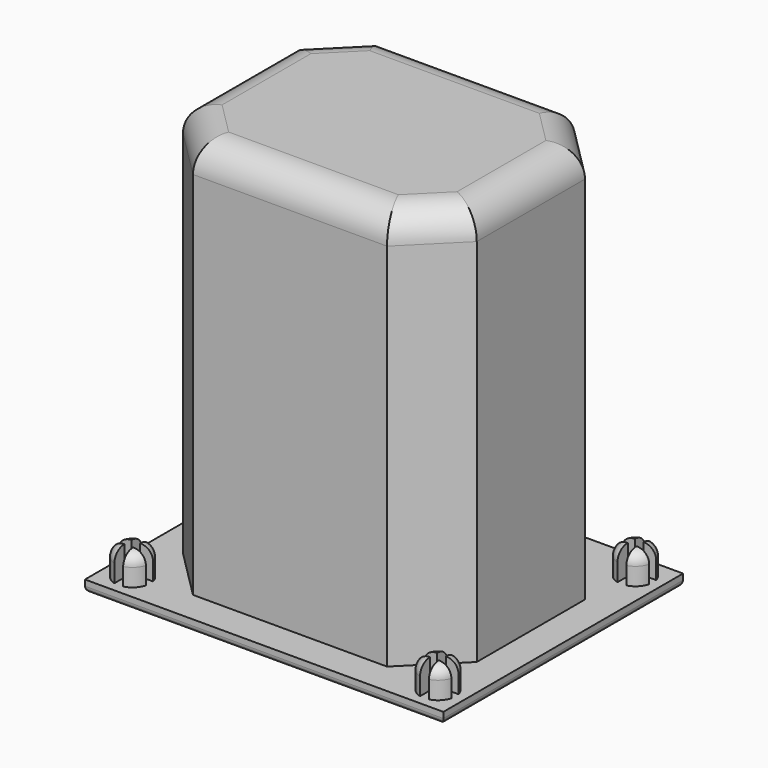
from build123d import *

# Parameters (mm, degrees)
SKETCH001_W                = 61
SKETCH001_H                = 51
PAD_DEPTH                  = 2
SKETCH002_R                = 3
PAD001_DEPTH               = 5
SKETCH002_MIRRORED_2_R     = 3
PAD001_MIRRORED_2_DEPTH    = 5
FILLET_R                   = 2
FILLET001_R                = 1
POCKET_DEPTH               = 5
POCKET_MIRRORED002_2_DEPTH = 5
PAD025_DEPTH               = 70
POCKET018_DEPTH            = 68
SKETCH062_W                = 1.5
SKETCH062_H                = 68
PAD023_DEPTH               = 37
FILLET025_R                = 5
SKETCH064_W                = 1
SKETCH064_H                = 68
PAD026_DEPTH               = 47


with BuildPart() as part:
    # Sketch001 → Pad (new body)
    with BuildSketch(Plane.XY):
        Rectangle(SKETCH001_W, SKETCH001_H)
    extrude(amount=PAD_DEPTH)

    # Sketch002 (on DatumPlane) → Pad001 (join)
    with BuildSketch(Plane.XY.offset(2)):
        with Locations((-26, 21)):
            Circle(SKETCH002_R)
    pad001 = extrude(amount=PAD001_DEPTH)

    # Sketch002 Mirrored 2 → Pad001 Mirrored 2 (add)
    with BuildSketch(Plane(origin=(0, 0, 2), x_dir=(-1, 0, 0), z_dir=(0, 0, -1))):
        with Locations((-26, 21)):
            Circle(SKETCH002_MIRRORED_2_R)
    pad001_mirrored_2 = extrude(amount=-PAD001_MIRRORED_2_DEPTH)

    # Mirrored001: Pad001, Pad001 Mirrored 2 across Sketch002 H_Axis
    add(pad001.mirror(Plane(origin=(0, 0, 2), x_dir=(0, 0, 1), z_dir=(0, 1, 0))))
    add(pad001_mirrored_2.mirror(Plane(origin=(0, 0, 2), x_dir=(0, 0, 1), z_dir=(0, 1, 0))))

    # Fillet
    fillet_edges = [part.edges().sort_by_distance(p)[0] for p in [
        (29, 21, 7),
        (29, -21, 7),
        (-29, -21, 7),
        (-29, 21, 7),
    ]]
    fillet(fillet_edges, radius=FILLET_R)

    # Fillet001
    fillet001_edges = [part.edges().sort_by_distance(p)[0] for p in [
        (0, 25.5, 0),
        (30.5, 0, 0),
        (0, -25.5, 0),
        (-30.5, 0, 0),
    ]]
    fillet(fillet001_edges, radius=FILLET001_R)

    # Sketch003 (on DatumPlane) → Pocket (cut)
    with BuildSketch(Plane.XY.offset(7)):
        Polygon((-29.265642, -20.28286), (-26.765642, -20.28286), (-26.765642, -17.78286), (-25.265642, -17.78286), (-25.265642, -20.28286), (-22.765642, -20.28286), (-22.765642, -21.78286), (-25.265642, -21.78286), (-25.265642, -24.28286), (-26.765642, -24.28286), (-26.765642, -21.78286), (-29.265642, -21.78286), align=None)
    pocket = extrude(amount=-POCKET_DEPTH, mode=Mode.SUBTRACT)

    # Sketch003 Mirrored002 2 → Pocket Mirrored002 2 (cut)
    with BuildSketch(Plane(origin=(0, 0, 7), x_dir=(-1, 0, 0), z_dir=(0, 0, -1))):
        Polygon((-29.265642, -20.28286), (-26.765642, -20.28286), (-26.765642, -17.78286), (-25.265642, -17.78286), (-25.265642, -20.28286), (-22.765642, -20.28286), (-22.765642, -21.78286), (-25.265642, -21.78286), (-25.265642, -24.28286), (-26.765642, -24.28286), (-26.765642, -21.78286), (-29.265642, -21.78286), align=None)
    pocket_mirrored002_2 = extrude(amount=POCKET_MIRRORED002_2_DEPTH, mode=Mode.SUBTRACT)

    # Mirrored003: Pocket, Pocket Mirrored002 2 across Sketch003 H_Axis
    add(pocket.mirror(Plane(origin=(0, 0, 7), x_dir=(0, 0, 1), z_dir=(0, 1, 0))), mode=Mode.SUBTRACT)
    add(pocket_mirrored002_2.mirror(Plane(origin=(0, 0, 7), x_dir=(0, 0, 1), z_dir=(0, 1, 0))), mode=Mode.SUBTRACT)


with BuildPart() as part_1:
    # Body placement: moved
    add(part.part.moved(Location((0, -65, 0))))


with BuildPart() as part_2:
    # BaseFeature placement: moved
    add(part_1.part.moved(Location((0, 65, 0))))

    # Sketch060 (on DatumPlane) → Pad025 (new body)
    with BuildSketch(Plane(origin=(0, 0, 0), x_dir=(1, 0, 0), z_dir=(0, 0, -1))):
        Polygon((-25, 11.514719), (-16.514719, 20), (16.514719, 20), (25, 11.514719), (25, -11.514719), (16.514719, -20), (-16.514719, -20), (-25, -11.514719), align=None)
    extrude(amount=-PAD025_DEPTH)

    # Sketch061 (on DatumPlane) → Pocket018 (cut)
    with BuildSketch(Plane(origin=(0, 0, 0), x_dir=(1, 0, 0), z_dir=(0, 0, -1))):
        Polygon((-23.5, 11.428932), (-16.428932, 18.5), (16.428932, 18.5), (23.5, 11.428932), (23.5, -11.428932), (16.428932, -18.5), (-16.428932, -18.5), (-23.5, -11.428932), align=None)
    extrude(amount=-POCKET018_DEPTH, mode=Mode.SUBTRACT)


with BuildPart() as part_3:
    # Body022 placement: moved
    add(part_2.part.moved(Location((225, 179, 0))))


with BuildPart() as part_4:
    # Clone015 placement: moved
    add(part_3.part.moved(Location((-225, -179, 0))))

    # Sketch062 (on DatumPlane) → Pad023 (new body)
    with BuildSketch(Plane.XZ.offset(-18.5)):
        with Locations((0, 34)):
            Rectangle(SKETCH062_W, SKETCH062_H)
    extrude(amount=PAD023_DEPTH)

    # Fillet025
    fillet025_edges = [part_4.edges().sort_by_distance(p)[0] for p in [
        (0.75, 0, 68),
        (8.589466, 18.5, 68),
        (19.964466, 14.964466, 68),
        (23.5, 0, 68),
        (19.964466, -14.964466, 68),
        (8.589466, -18.5, 68),
        (-23.5, 0, 68),
        (-19.964466, 14.964466, 68),
        (-8.589466, 18.5, 68),
        (-0.75, 0, 68),
        (-8.589466, -18.5, 68),
        (-19.964466, -14.964466, 68),
        (-20.757359, -15.757359, 70),
        (0, -20, 70),
        (20.757359, -15.757359, 70),
        (25, 0, 70),
        (20.757359, 15.757359, 70),
        (0, 20, 70),
        (-20.757359, 15.757359, 70),
        (-25, 0, 70),
    ]]
    fillet(fillet025_edges, radius=FILLET025_R)


with BuildPart() as part_5:
    # Body023 placement: moved
    add(part_4.part.moved(Location((150, 179, 0))))

    # Sketch064 (on DatumPlane) → Pad026 (new body)
    with BuildSketch(Plane(origin=(173.5, 179, 0), x_dir=(0, -1, 0), z_dir=(-1, 0, 0))):
        with Locations((0, 34)):
            Rectangle(SKETCH064_W, SKETCH064_H)
    extrude(amount=PAD026_DEPTH)


with BuildPart() as part_6:
    # Body025 placement: moved
    add(part_5.part.moved(Location((147, 1, 0))))


solid = part_6.part
